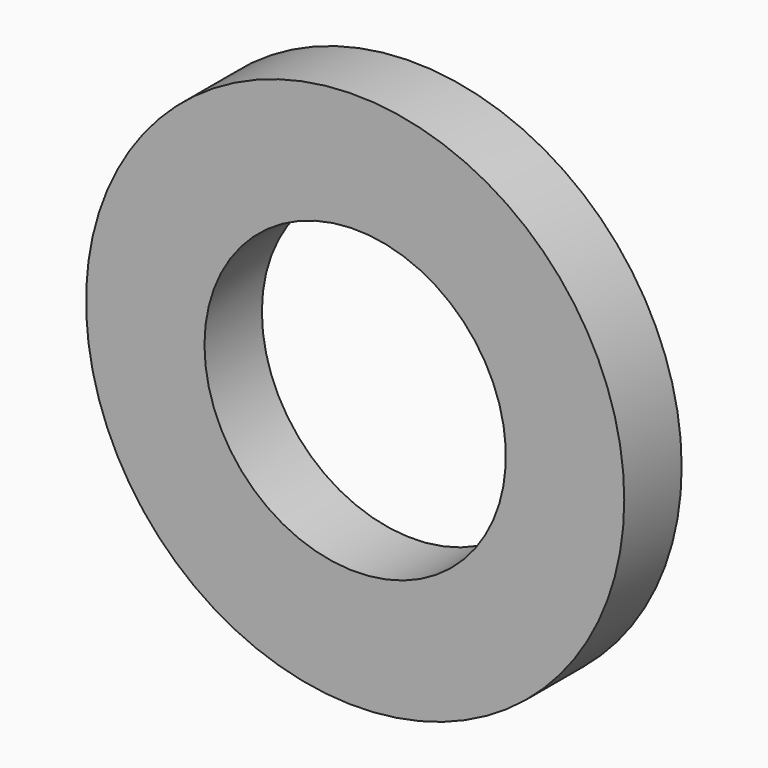
from build123d import *

# Parameters (mm, degrees)
F0_R     = 7.5
F1_DEPTH = 2
F2_D     = 8.4


with BuildPart() as f1:
    # F0 (on Front) → F1 (new body)
    with BuildSketch(Plane.XZ):
        Circle(F0_R)
    extrude(amount=-F1_DEPTH)

    # F2 (through all)
    with Locations(Plane.XZ):
        with Locations((0, 0)):
            Hole(F2_D / 2)


solid = f1.part
